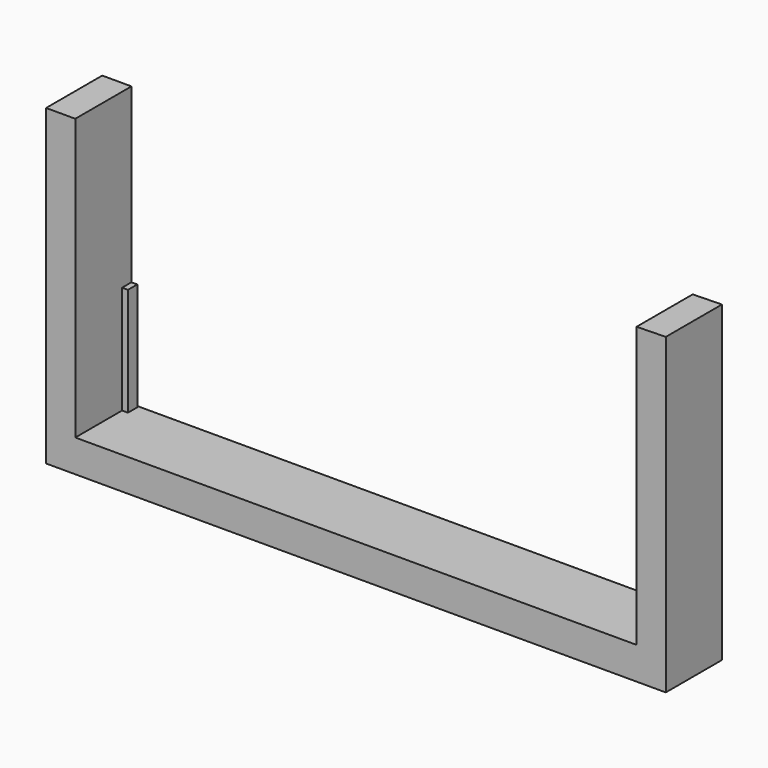
from build123d import *

# Parameters (mm, degrees)
F1_DEPTH = 609.6
F3_DEPTH = 4876.8
F4_W     = 101.6
F4_H     = 939.8
F5_DEPTH = 50.8
F6_W     = 101.6
F6_H     = 939.8
F7_DEPTH = 50.8
F8_R     = 3.175
F9_DEPTH = 25.4


with BuildPart() as f1:
    # F0 (on Front) → F1 (new body)
    with BuildSketch(Plane.XZ):
        Polygon((4876.8, 0), (0, 0), (0, 2438.4), (-254, 2438.4), (-254, -281.390131), (5130.749751, -281.390131), (5130.749751, 2438.4), (4876.8, 2433.347884), align=None)
    extrude(amount=F1_DEPTH)

    # F2 (on face) → F3 (join)
    with BuildSketch(Plane(origin=(4876.8, 0, 0), x_dir=(0, -1, 0), z_dir=(-1, 0, 0))):
        with BuildLine():
            Line((0, -19.05), (0, 0))
            Line((0, 0), (-12.7, 0))
            ThreePointArc((-12.7, 0), (-17.190128, -1.859872), (-19.05, -6.35))
            Line((-19.05, -6.35), (-19.05, -12.7))
            ThreePointArc((-19.05, -12.7), (-17.190128, -17.190128), (-12.7, -19.05))
            Line((-12.7, -19.05), (0, -19.05))
        make_face()
    extrude(amount=F3_DEPTH)

    # F4 (on face) → F5 (join)
    with BuildSketch(Plane.YZ):
        with Locations((-50.8, 469.9)):
            Rectangle(F4_W, F4_H)
    extrude(amount=F5_DEPTH)

    # F6 (on face) → F7 (join)
    with BuildSketch(Plane(origin=(4876.8, 0, 0), x_dir=(0, -1, 0), z_dir=(-1, 0, 0))):
        with Locations((50.8, 469.9)):
            Rectangle(F6_W, F6_H)
    extrude(amount=F7_DEPTH)

    # F8 (on face) → F9 (join)
    with BuildSketch(Plane(origin=(4826, 0, 0), x_dir=(0, -1, 0), z_dir=(-1, 0, 0))):
        with Locations((50.8, 893.7625)):
            Circle(F8_R)
    extrude(amount=F9_DEPTH)


solid = f1.part
